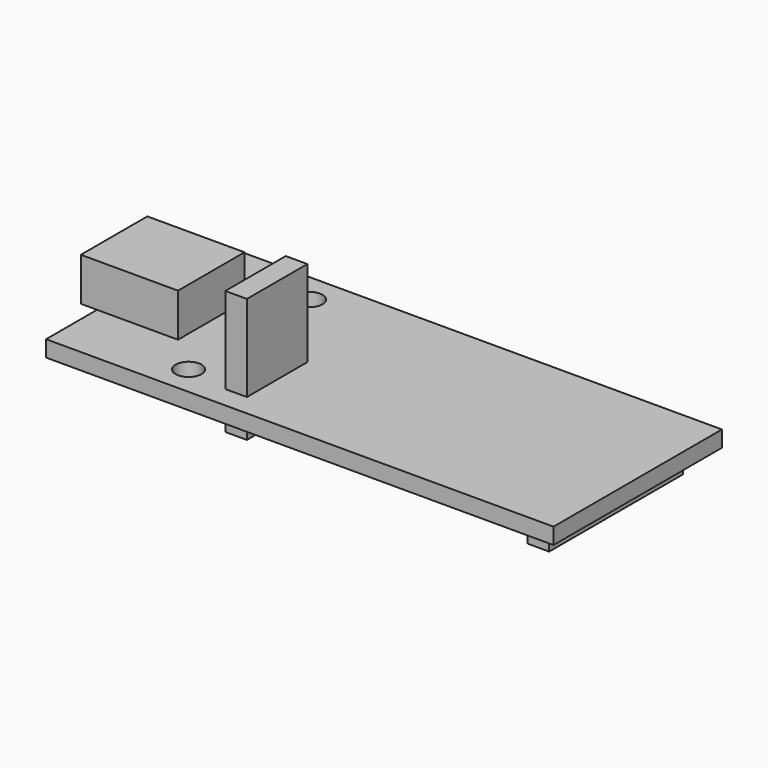
from build123d import *

# Parameters (mm, degrees)
SKETCH_W      = 47
SKETCH_H      = 19.5
PAD_DEPTH     = 1.5
SKETCH001_W   = 9
SKETCH001_H   = 7.7
PAD001_DEPTH  = 4
SKETCH002_R   = 1.2
POCKET_DEPTH  = 1.501
SKETCH003_W   = 2
SKETCH003_H   = 15.5
SKETCH003_H_2 = 7
PAD002_DEPTH  = 2
SKETCH004_W   = 2
SKETCH004_H   = 7
PAD003_DEPTH  = 8


with BuildPart() as part:
    # Sketch → Pad (new body)
    with BuildSketch(Plane.XY):
        with Locations((23.5, 9.75)):
            Rectangle(SKETCH_W, SKETCH_H)
    extrude(amount=PAD_DEPTH)

    # Sketch001 (on Face6 of Pad) → Pad001 (join)
    with BuildSketch(Plane.XY.offset(1.5)):
        with Locations((3, 9.75)):
            Rectangle(SKETCH001_W, SKETCH001_H)
    extrude(amount=PAD001_DEPTH)

    # Sketch002 (on Face5 of Pad001) → Pocket (cut, through all)
    with BuildSketch(Plane.XY.offset(1.5)):
        with Locations((11, 16.75)):
            Circle(SKETCH002_R)
        with Locations((11, 2.75)):
            Circle(SKETCH002_R)
    extrude(amount=-POCKET_DEPTH, mode=Mode.SUBTRACT)

    # Sketch003 (on Face4 of Pocket) → Pad002 (join)
    with BuildSketch(Plane(origin=(0, 0, 0), x_dir=(1, 0, 0), z_dir=(0, 0, -1))):
        with Locations((44, -9.75)):
            Rectangle(SKETCH003_W, SKETCH003_H)
        with Locations((16, -5.5)):
            Rectangle(SKETCH003_W, SKETCH003_H_2)
    extrude(amount=PAD002_DEPTH)

    # Sketch004 (on Face5 of Pad002) → Pad003 (join)
    with BuildSketch(Plane.XY.offset(1.5)):
        with Locations((16, 5.5)):
            Rectangle(SKETCH004_W, SKETCH004_H)
    extrude(amount=PAD003_DEPTH)


solid = part.part
